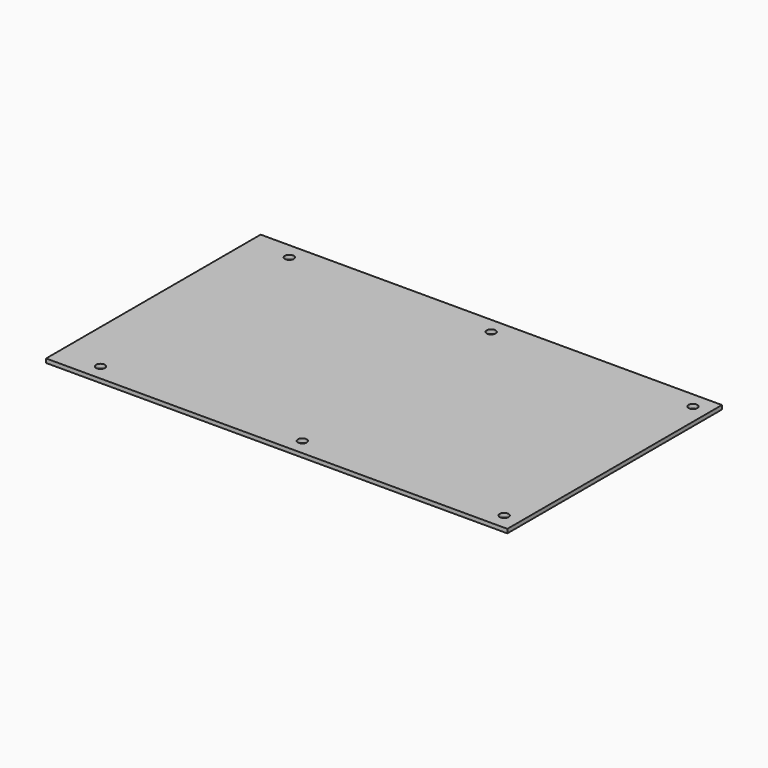
from build123d import *

# Parameters (mm, degrees)
F0_W     = 344
F0_H     = 200
F1_DEPTH = 3
F2_R     = 3.3
F3_DEPTH = 25
F4_R     = 3.3
F5_DEPTH = 25


with BuildPart() as f1:
    # F0 (on Top) → F1 (new body)
    with BuildSketch(Plane.XY):
        with Locations((172, 100)):
            Rectangle(F0_W, F0_H)
    extrude(amount=F1_DEPTH)

    # F2 (on face) → F3 (cut)
    with BuildSketch(Plane.XY.offset(3)):
        with Locations((31, 12)):
            Circle(F2_R)
        with Locations((181.5, 12)):
            Circle(F2_R)
        with Locations((332, 12)):
            Circle(F2_R)
    extrude(amount=-F3_DEPTH, mode=Mode.SUBTRACT)

    # F4 (on face) → F5 (cut)
    with BuildSketch(Plane.XY.offset(3)):
        with Locations((31, 188)):
            Circle(F4_R)
        with Locations((181.5, 188)):
            Circle(F4_R)
        with Locations((332, 188)):
            Circle(F4_R)
    extrude(amount=-F5_DEPTH, mode=Mode.SUBTRACT)


with BuildPart() as f6_1:
    # F6: copy of F1
    add(f1.part)


solid = Compound([f1.part, f6_1.part])
